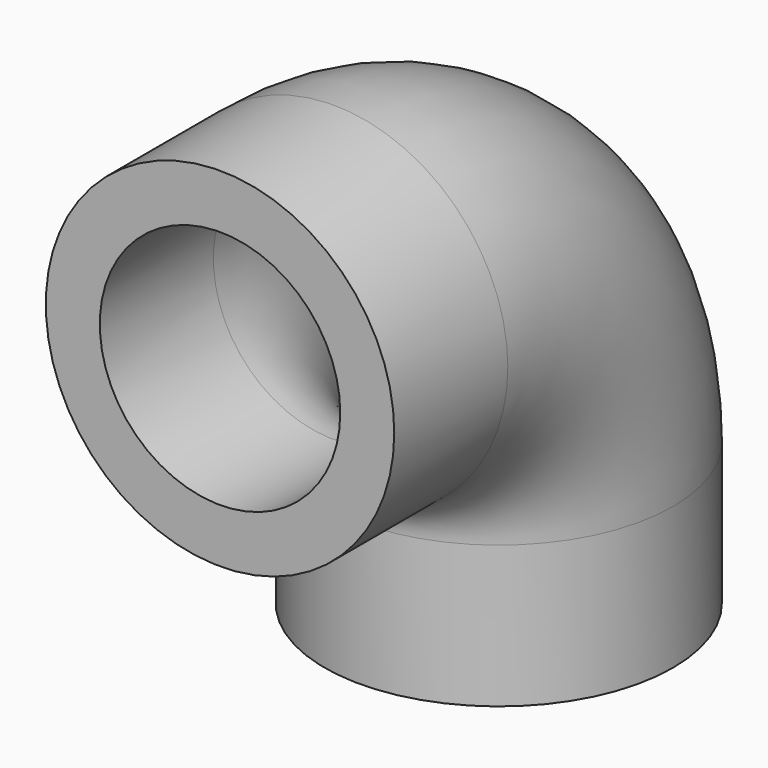
from build123d import *

# Parameters (mm, degrees)
F0_R        = 13.5
F0_R_2      = 9.3155
F1_DEPTH    = 11
F1_FACE_R   = 13.5
F1_FACE_R_2 = 9.3155
F4_R        = 13.5
F4_R_2      = 9.3155
F5_DEPTH    = 11


with BuildPart() as f1:
    # F0 (on Front) → F1 (new body)
    with BuildSketch(Plane.XZ):
        Circle(F0_R)
        Circle(F0_R_2, mode=Mode.SUBTRACT)
    extrude(amount=F1_DEPTH)

    # F3: sweep along a path in F2
    with BuildLine(Plane.YZ) as f3_path:
        ThreePointArc((0, 0), (11.313708, -4.686292), (16, -16))
    # F1_face (on face) → F3 (sweep)
    with BuildSketch(Plane(origin=(0, 0, 0), x_dir=(1, 0, 0), z_dir=(0, 1, 0))):
        Circle(F1_FACE_R)
        Circle(F1_FACE_R_2, mode=Mode.SUBTRACT)
    sweep(path=f3_path.line)

    # F4 (on face) → F5 (join)
    with BuildSketch(Plane(origin=(0, 0, -16), x_dir=(1, 0, 0), z_dir=(0, 0, -1))):
        with Locations((0, -16)):
            Circle(F4_R)
        with Locations((0, -16)):
            Circle(F4_R_2, mode=Mode.SUBTRACT)
    extrude(amount=F5_DEPTH)


solid = f1.part
